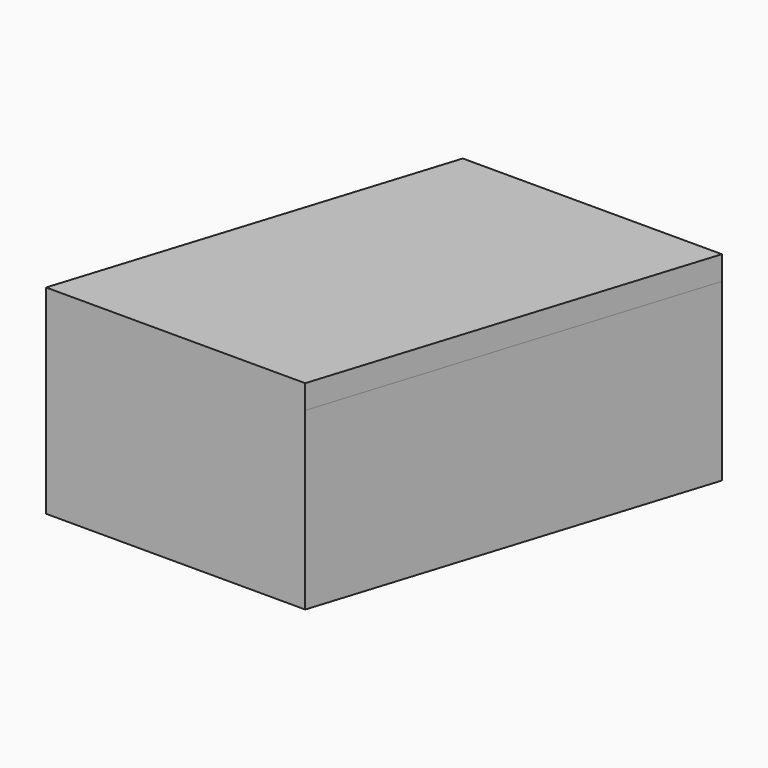
from build123d import *

# Parameters (mm, degrees)
F1_DEPTH = 15.8
F3_DEPTH = 2.5
F4_START = -18.3
F4_DEPTH = 2.5


with BuildPart() as f1:
    # F0 (on Top) → F1 (new body)
    with BuildSketch(Plane.XY):
        Polygon((21.8094058029, 0), (0, 0), (11.0354576108, 35), (8.4141347979, 35), (-3.8825179684, -4), (23.1695334603, -4), (35.4661862265, 35), (32.8448634137, 35), align=None)
    extrude(amount=-F1_DEPTH)

    # F2 (on face) → F3 (join)
    with BuildSketch(Plane(origin=(0, 0, -15.8), x_dir=(1, 0, 0), z_dir=(0, 0, -1))):
        Polygon((11.0354576108, -35), (32.8448634137, -35), (21.8094058029, 0), (0, 0), align=None)
        Polygon((32.8448634137, -35), (35.4661862265, -35), (23.1695334603, 4), (-3.8825179684, 4), (8.4141347979, -35), (11.0354576108, -35), (0, 0), (21.8094058029, 0), align=None)
    extrude(amount=F3_DEPTH)

    # F3_face (on face) → F4 (join)
    with BuildSketch(Plane(origin=(15.7918341291, 15.5, -18.3), x_dir=(1, 0, 0), z_dir=(0, 0, -1)).offset(F4_START)):
        Polygon((19.6743520975, -19.5), (7.3776993312, 19.5), (-19.6743520975, 19.5), (-7.3776993312, -19.5), align=None)
    extrude(amount=-F4_DEPTH)


solid = f1.part
